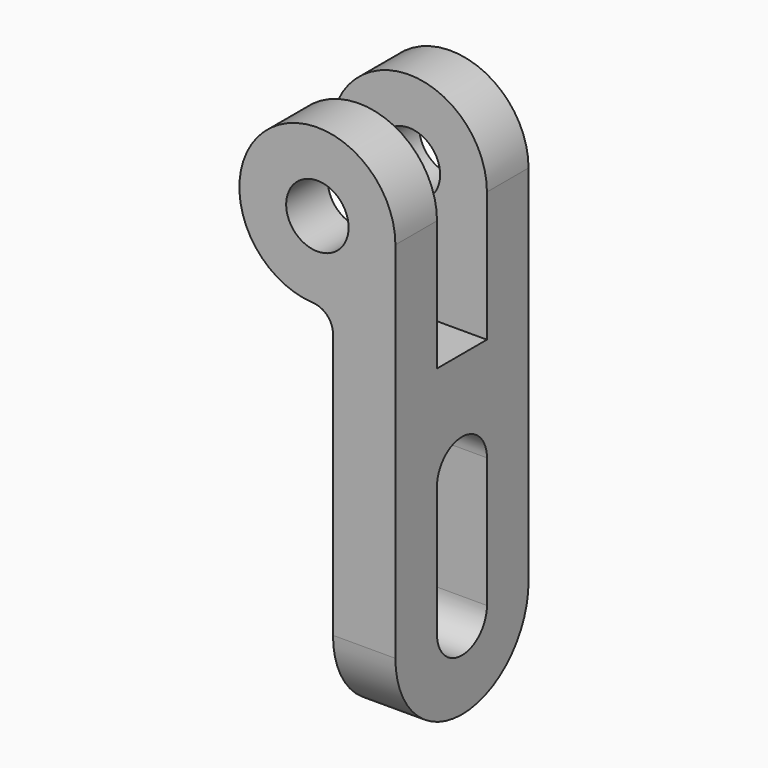
from build123d import *

# Parameters (mm, degrees)
F0_R     = 6
F1_DEPTH = 32
F3_DEPTH = 15.001
F5_DEPTH = 30.001
F6_W     = 12
F6_H     = 25
F7_DEPTH = 25
F8_W     = 12
F8_H     = 30.9046469629
F9_DEPTH = 55.001


with BuildPart() as f1:
    # F0 (on Front) → F1 (new body)
    with BuildSketch(Plane.XZ):
        with BuildLine():
            Line((15, -86), (15, 0))
            ThreePointArc((15, 0), (-10.3237080242, 10.8821437517), (-0.7894736842, -14.9792099692))
            ThreePointArc((-0.7894736842, -14.9792099692), (1.9019050004, -16.2206771546), (3, -18.973665961))
            Line((3, -18.973665961), (3, -86))
            Line((3, -86), (15, -86))
        make_face()
        Circle(F0_R, mode=Mode.SUBTRACT)
    extrude(amount=F1_DEPTH)

    # F2 (on Right) → F3 (cut, through all)
    with BuildSketch(Plane.YZ):
        with BuildLine():
            Line((-10, -70), (-10, -45))
            ThreePointArc((-10, -45), (-16, -39), (-22, -45))
            Line((-22, -45), (-22, -70))
            ThreePointArc((-22, -70), (-16, -76), (-10, -70))
        make_face()
    extrude(amount=F3_DEPTH, mode=Mode.SUBTRACT)

    # F4 (on face) → F5 (cut, through all)
    with BuildSketch(Plane.YZ.offset(15)):
        with BuildLine():
            Line((-32, -70), (-32, -86))
            Line((-32, -86), (-16, -86))
            ThreePointArc((-16, -86), (-27.313708499, -81.313708499), (-32, -70))
        make_face()
        with BuildLine():
            ThreePointArc((0, -70), (-4.686291501, -81.313708499), (-16, -86))
            Line((-16, -86), (0, -86))
            Line((0, -86), (0, -70))
        make_face()
    extrude(amount=-F5_DEPTH, mode=Mode.SUBTRACT)

    # F6 (on face) → F7 (join)
    with BuildSketch(Plane.YZ.offset(15)):
        with Locations((-16, -12.5)):
            Rectangle(F6_W, F6_H)
    extrude(amount=F7_DEPTH)

    # F8 (on face) → F9 (cut, through all)
    with BuildSketch(Plane.YZ.offset(40)):
        Polygon((-10, 0), (-22, 0), (-22, -25), (-10, -25), (-10, -2.2846085485), align=None)
        with Locations((-16, 15.4523234814)):
            Rectangle(F8_W, F8_H)
    extrude(amount=-F9_DEPTH, mode=Mode.SUBTRACT)


solid = f1.part
